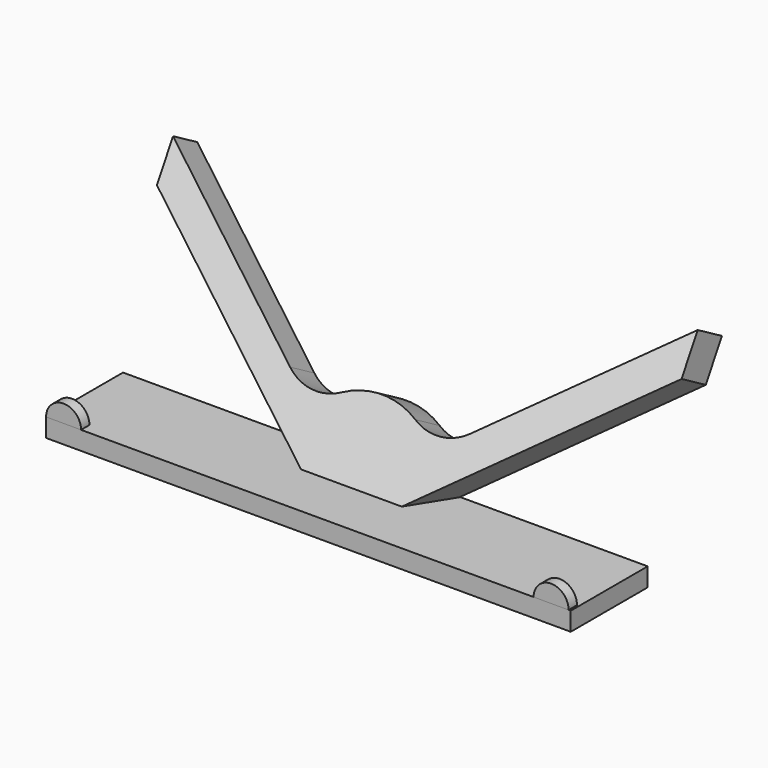
from build123d import *

# Parameters (mm, degrees)
F3_DEPTH = 10
F4_W     = 150
F4_H     = 5.3
F5_DEPTH = 11.75
F6_W     = 150
F6_H     = 5.3
F7_DEPTH = 4
F9_DEPTH = 3


with BuildPart() as f3:
    # F2 (on face) → F3 (new body)
    with BuildSketch(Plane(origin=(0, 0, 0), x_dir=(-1, 0, 0), z_dir=(0, 0.8660254038, -0.5))):
        with BuildLine():
            ThreePointArc((-10.5717623432, 19.2934662764), (-18.3702710328, 17.6535746114), (-25.7686707116, 20.6149365693))
            Line((-25.7686707116, 20.6149365693), (-75, 60))
            Line((-75, 60), (-75, 48.4743763726))
            Line((-75, 48.4743763726), (-14.4070295342, 0))
            Line((-14.4070295342, 0), (0, 0))
            Line((0, 0), (14.4070295342, 0))
            Line((14.4070295342, 0), (75, 48.4743763726))
            Line((75, 48.4743763726), (75, 60))
            Line((75, 60), (25.7686707116, 20.6149365693))
            ThreePointArc((25.7686707116, 20.6149365693), (18.3702710328, 17.6535746114), (10.5717623432, 19.2934662764))
            ThreePointArc((10.5717623432, 19.2934662764), (0, 22), (-10.5717623432, 19.2934662764))
        make_face()
    extrude(amount=F3_DEPTH)

    # F4 (on Front) → F5 (join, symmetric)
    with BuildSketch(Plane.XZ):
        with Locations((0.3054966368, -2.65)):
            Rectangle(F4_W, F4_H)
    extrude(amount=F5_DEPTH, both=True)

    # F6 (on face) → F7 (join)
    with BuildSketch(Plane.XZ.offset(11.75)):
        with Locations((0.3054966368, -2.65)):
            Rectangle(F6_W, F6_H)
    extrude(amount=F7_DEPTH)


with BuildPart() as f9:
    # F8 (on face) → F9 (new body)
    with BuildSketch(Plane.XZ.offset(15.75)):
        with BuildLine():
            ThreePointArc((-64.6945033632, 0), (-69.6945033632, 5), (-74.6945033632, 0))
            Line((-74.6945033632, 0), (-64.6945033632, 0))
        make_face()
    extrude(amount=-F9_DEPTH)


with BuildPart() as f9b:
    # F8 (on face) → F9, piece 2 (new body)
    with BuildSketch(Plane.XZ.offset(15.75)):
        with BuildLine():
            ThreePointArc((74.6945033632, 0), (69.6945033632, 5), (64.6945033632, 0))
            Line((64.6945033632, 0), (74.6945033632, 0))
        make_face()
    extrude(amount=-F9_DEPTH)


solid = Compound([f3.part, f9.part, f9b.part])
